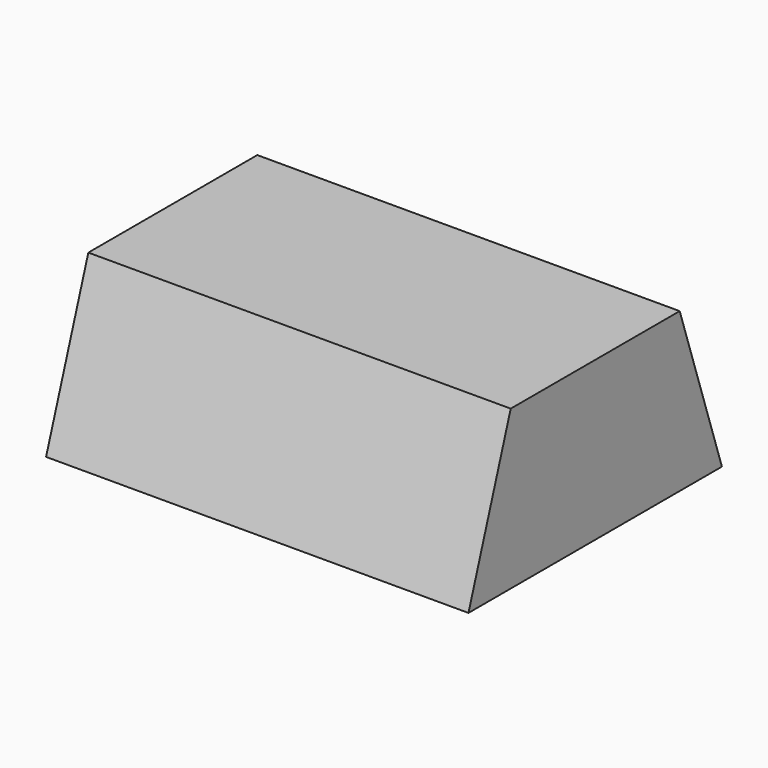
from build123d import *

# Parameters (mm, degrees)
PAD_DEPTH = 80


with BuildPart() as part:
    # Sketch → Pad (new body)
    with BuildSketch(Plane.YZ):
        Polygon((-30, 0), (30, 0), (20, 30), (-20, 30), align=None)
    extrude(amount=PAD_DEPTH)


solid = part.part
